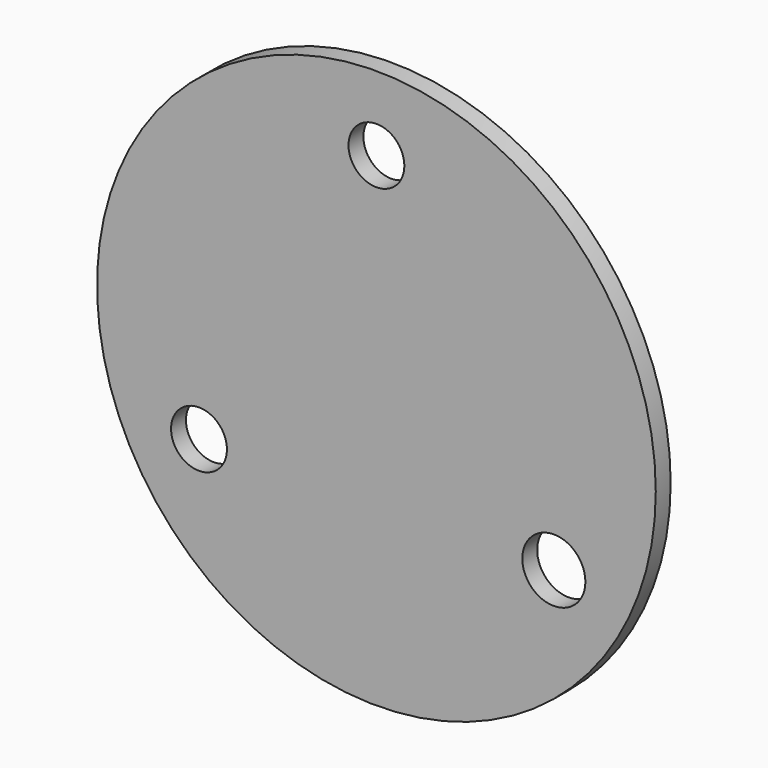
from build123d import *

# Parameters (mm, degrees)
F0_R     = 95.25
F1_DEPTH = 6.35
F2_R     = 9.525
F2_R_2   = 10.752454
F3_DEPTH = 6.35


with BuildPart() as f1:
    # F0 (on Front) → F1 (new body)
    with BuildSketch(Plane.XZ):
        Circle(F0_R)
    extrude(amount=F1_DEPTH)

    # F2 (on Front) → F3 (cut, through all)
    with BuildSketch(Plane.XZ):
        with Locations((0, 69.85)):
            Circle(F2_R)
        with Locations((-60.491874, -34.925)):
            Circle(F2_R)
        with Locations((60.491874, -34.925)):
            Circle(F2_R_2)
    extrude(amount=F3_DEPTH, mode=Mode.SUBTRACT)


solid = f1.part
